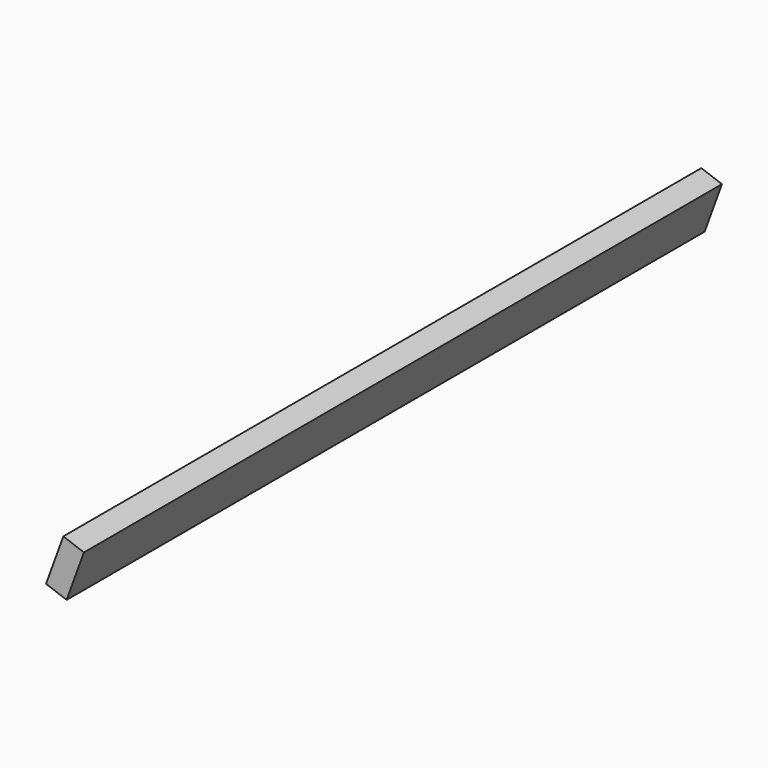
from build123d import *

# Parameters (mm, degrees)
PAD_DEPTH = 474


with BuildPart() as part:
    # Sketch → Pad (new body)
    with BuildSketch(Plane.XZ):
        Polygon((0, 0), (10.260604, 28.190779), (22.476608, 23.744517), (12.216004, -4.446262), align=None)
    extrude(amount=-PAD_DEPTH)


solid = part.part
